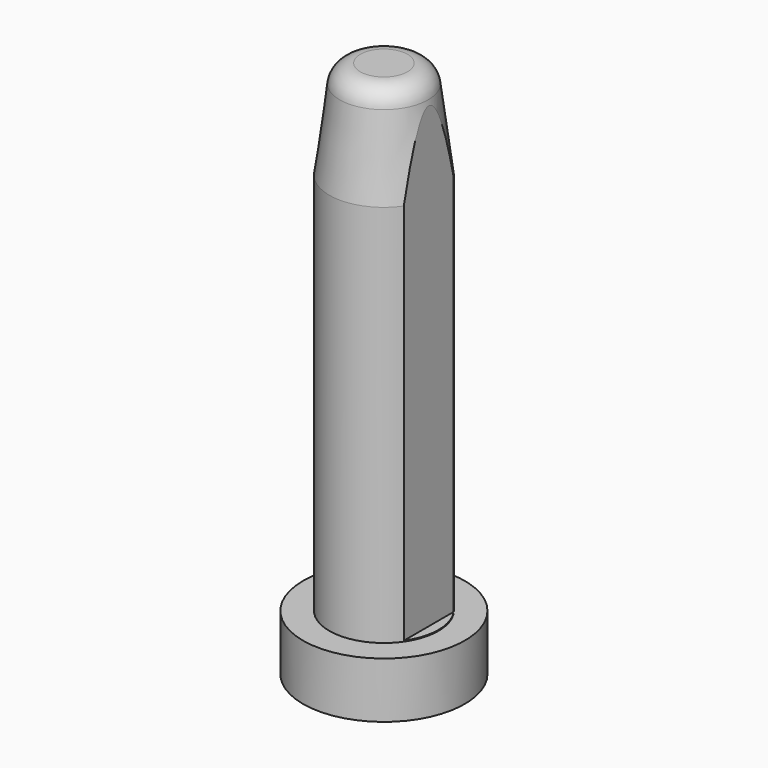
from build123d import *

# Parameters (mm, degrees)
F4_DEPTH = 9.6
F5_R     = 1.483987


with BuildPart() as f1:
    # F0 (on Front) → F1 (revolve)
    with BuildSketch(Plane.XZ):
        Polygon((-5.8, 0), (0, 0), (0, 38.57), (-3, 38.57), (-3.916144, 31.5), (-3.916144, 4), (-5.8, 4), align=None)
    revolve(axis=Axis((0, 0, 19.285), (0, 0, -1)))

    # F3 (on offset) → F4 (cut)
    with BuildSketch(Plane.YZ.offset(3.215)):
        Polygon((-4.207731, 39.193626), (-4.207731, 4.065906), (4.512294, 4.065906), (4.867772, 39.193626), align=None)
    extrude(amount=F4_DEPTH, mode=Mode.SUBTRACT)

    # F5
    f5_edges = [f1.edges().sort_by_distance(p)[0] for p in [
        (3, 0, 38.57),
    ]]
    fillet(f5_edges, radius=F5_R)


solid = f1.part
